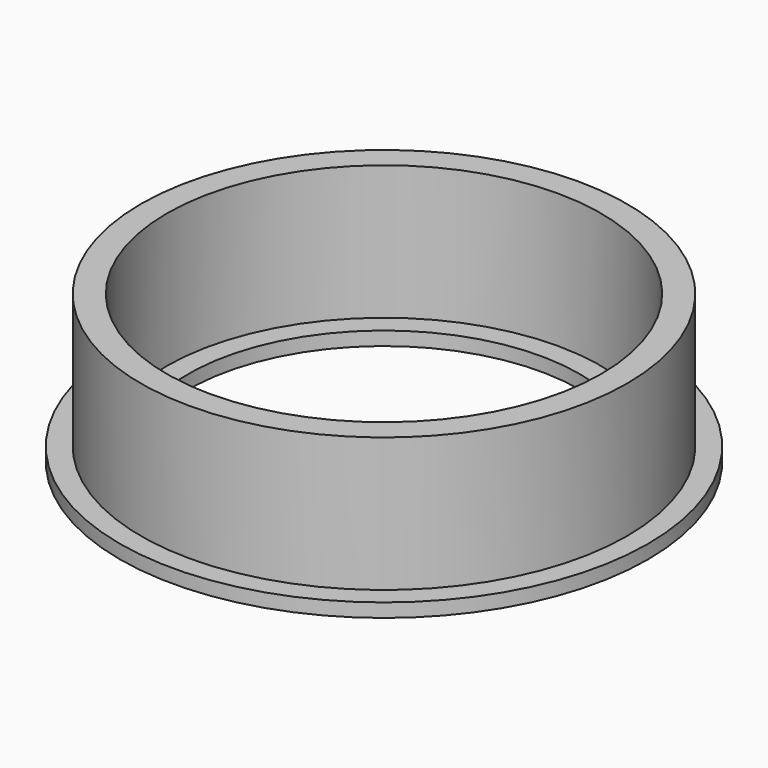
from build123d import *

# Parameters (mm, degrees)
F0_R     = 33.734375
F1_DEPTH = 1.75
F2_R     = 31.05
F2_R_2   = 27.75
F3_DEPTH = 17.15
F2_R_3   = 25
F4_DEPTH = 1.751


with BuildPart() as f1:
    # F0 (on Top) → F1 (new body)
    with BuildSketch(Plane.XY):
        Circle(F0_R)
    extrude(amount=F1_DEPTH)

    # F2 (on face) → F3 (join)
    with BuildSketch(Plane.XY.offset(1.75)):
        Circle(F2_R)
        Circle(F2_R_2, mode=Mode.SUBTRACT)
    extrude(amount=F3_DEPTH)

    # F2 (on face) → F4 (cut, through all)
    with BuildSketch(Plane.XY.offset(1.75)):
        Circle(F2_R_3)
    extrude(amount=-F4_DEPTH, mode=Mode.SUBTRACT)


solid = f1.part
